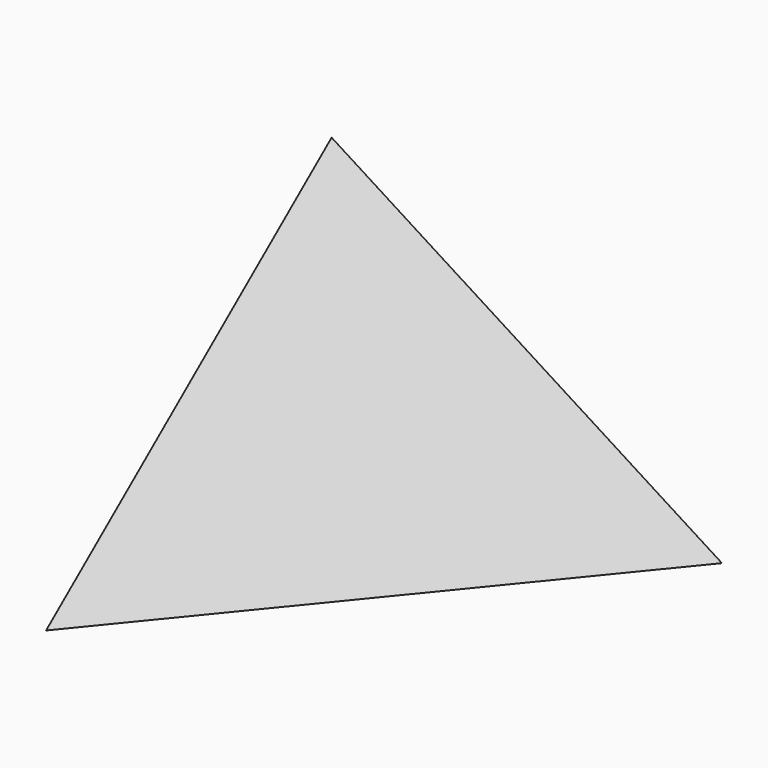
from build123d import *


with BuildPart() as f3:
    # F0 (on Top) → F3 section 0
    with BuildSketch(Plane.XY, mode=Mode.PRIVATE) as f3_s0:
        Polygon((-38.454741, -238.277737), (225.581943, 85.836086), (-187.127203, 152.441651), align=None)
    loft([f3_s0.sketch, Vertex(-2.067809, -7.375341, 254)])


solid = f3.part
